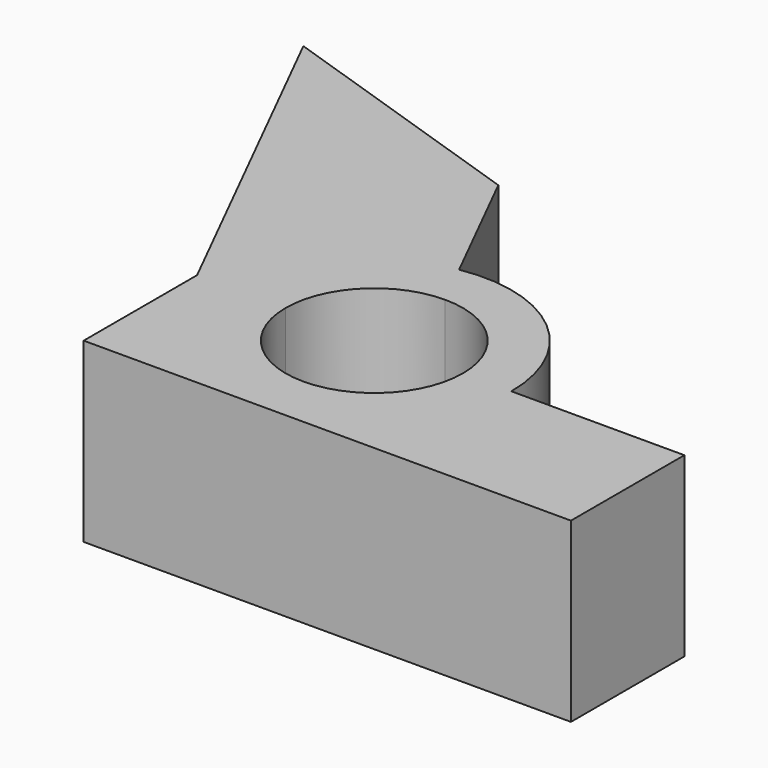
from build123d import *

# Parameters (mm, degrees)
F1_DEPTH = 25.4


with BuildPart() as f1:
    # F0 (on Top) → F1 (new body)
    with BuildSketch(Plane.XY):
        with BuildLine():
            ThreePointArc((-19.6559147335, 0), (-15.0318966776, 12.6647963381), (-3.3354261213, 19.3708522425))
            Line((-3.3354261213, 19.3708522425), (-12.7, 38.1))
            Line((-12.7, 38.1), (-50.8, 50.8))
            Line((-50.8, 50.8), (-38.1, 25.4))
            Line((-38.1, 25.4), (-25.4, 0))
            Line((-25.4, 0), (-19.6559147335, 0))
        make_face()
        with BuildLine():
            ThreePointArc((-12.7, 0), (-8.9802561211, 8.9802561211), (0, 12.7))
            Line((0, 12.7), (-3.3354261213, 19.3708522425))
            ThreePointArc((-3.3354261213, 19.3708522425), (-15.0318966776, 12.6647963381), (-19.6559147335, 0))
            Line((-19.6559147335, 0), (-12.7, 0))
        make_face()
        with BuildLine():
            ThreePointArc((0, 12.7), (8.9802561211, 8.9802561211), (12.7, 0))
            Line((12.7, 0), (19.6559147335, 0))
            ThreePointArc((19.6559147335, 0), (12.6647963381, 15.0318966776), (-3.3354261213, 19.3708522425))
            Line((-3.3354261213, 19.3708522425), (0, 12.7))
        make_face()
        with BuildLine():
            Line((19.6559147335, 0), (12.7, 0))
            ThreePointArc((12.7, 0), (0, -12.7), (-12.7, 0))
            Line((-12.7, 0), (-19.6559147335, 0))
            ThreePointArc((-19.6559147335, 0), (0, -19.6559147335), (19.6559147335, 0))
        make_face()
        with BuildLine():
            Line((44.45, 0), (19.6559147335, 0))
            ThreePointArc((19.6559147335, 0), (0, -19.6559147335), (-19.6559147335, 0))
            Line((-19.6559147335, 0), (-25.4, 0))
            Line((-25.4, 0), (-25.4, -20.32))
            Line((-25.4, -20.32), (44.45, -20.32))
            Line((44.45, -20.32), (44.45, 0))
        make_face()
    extrude(amount=F1_DEPTH)


solid = f1.part
